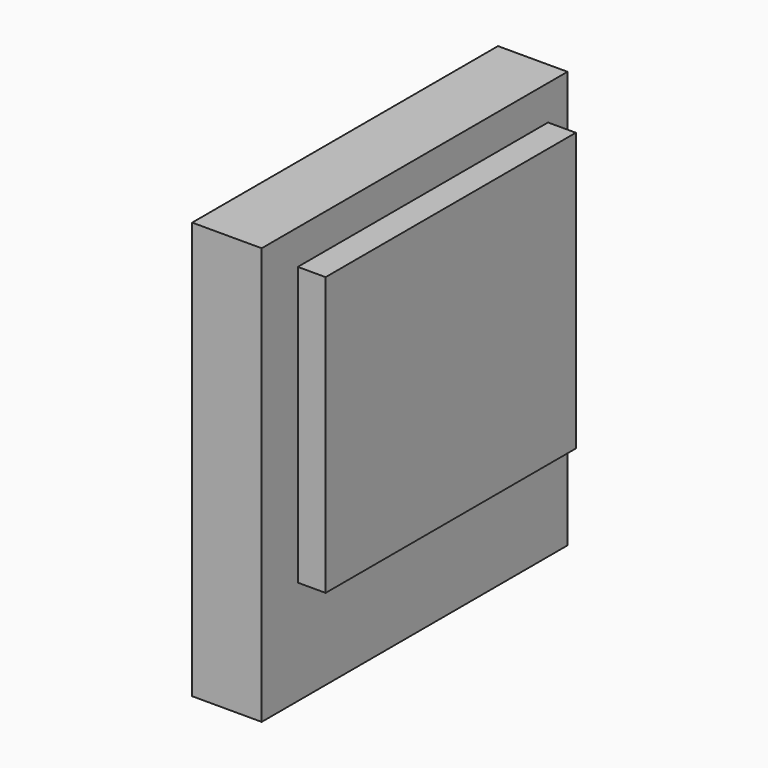
from build123d import *

# Parameters (mm, degrees)
BOX034_W     = 3
BOX034_H     = 9
BOX034_DEPTH = 8
BOX038_W     = 2
BOX038_H     = 11
BOX038_DEPTH = 12


with BuildPart() as kub030:
    # Box034 → Box034 (new body)
    with BuildSketch(Plane(origin=(-2.4, -8, 4), x_dir=(1, 0, 0), z_dir=(0, 0, 1))):
        with Locations((1.5, 4.5)):
            Rectangle(BOX034_W, BOX034_H)
    extrude(amount=BOX034_DEPTH)


with BuildPart() as inside:
    # Box038 → Box038 (new body)
    with BuildSketch(Plane(origin=(-2.2, -9.3, 1), x_dir=(1, 0, 0), z_dir=(0, 0, 1))):
        with Locations((1, 5.5)):
            Rectangle(BOX038_W, BOX038_H)
    extrude(amount=BOX038_DEPTH)

    # Fusion007: union Kub030
    add(kub030.part)


solid = inside.part
